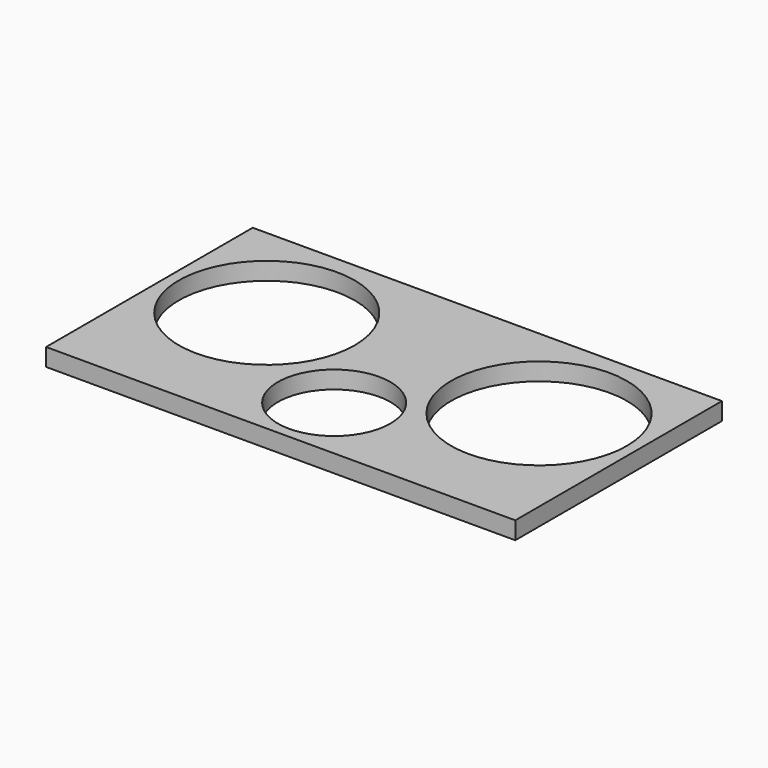
from build123d import *

# Parameters (mm, degrees)
F0_W     = 169.39768
F0_H     = 93.24848
F0_R     = 20.32
F0_R_2   = 31.75
F1_DEPTH = 6.35


with BuildPart() as f1:
    # F0 (on Top) → F1 (new body)
    with BuildSketch(Plane.XY):
        with Locations((84.69884, -46.62424)):
            Rectangle(F0_W, F0_H)
        with Locations((84.69884, -69.11848)):
            Circle(F0_R, mode=Mode.SUBTRACT)
        with Locations((35.56, -38.1)):
            Circle(F0_R_2, mode=Mode.SUBTRACT)
        with Locations((133.83768, -38.1)):
            Circle(F0_R_2, mode=Mode.SUBTRACT)
    extrude(amount=F1_DEPTH)


solid = f1.part
